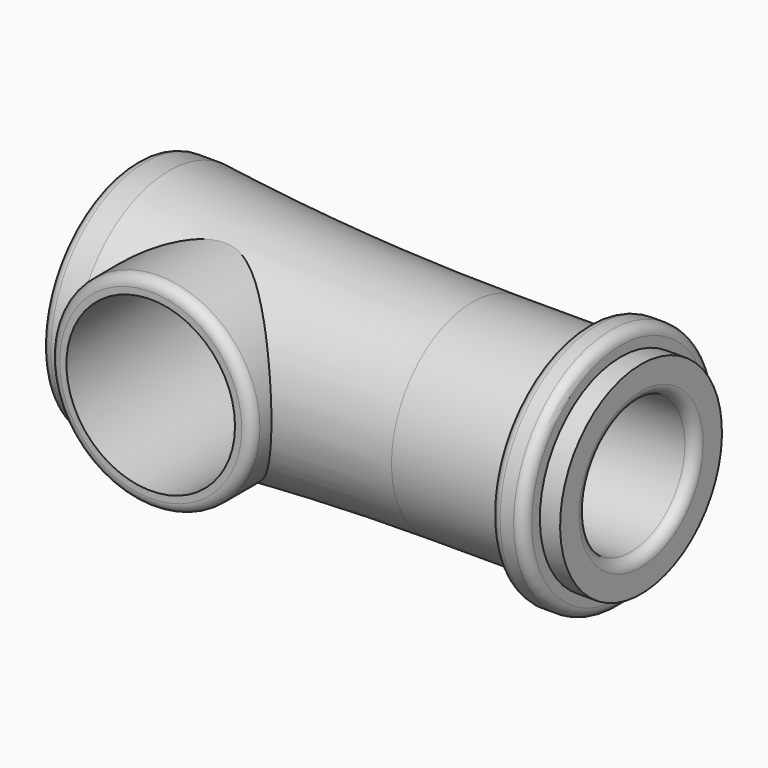
from build123d import *

# Parameters (mm, degrees)
F2_R     = 15
F3_DEPTH = 19
F4_R     = 12.5
F5_DEPTH = 25
F6_R     = 1.5


with BuildPart() as f1:
    # F0 (on Front) → F1 (revolve)
    with BuildSketch(Plane.XZ):
        with BuildLine():
            Line((0, 17.5), (0, 0))
            Line((0, 0), (60, 0))
            Line((60, 0), (60, 10))
            Line((60, 10), (75, 10))
            Line((75, 10), (75, 15))
            Line((75, 15), (72, 15))
            Line((72, 15), (72, 18))
            Line((72, 18), (67, 18))
            Line((67, 18), (67, 15))
            Line((67, 15), (50, 15))
            ThreePointArc((50, 15), (27.465305, 15.625482), (5, 17.5))
            Line((5, 17.5), (0, 17.5))
        make_face()
    revolve(axis=Axis((30, 0, 0), (1, 0, 0)))

    # F2 (on Front) → F3 (join)
    with BuildSketch(Plane.XZ):
        with Locations((17.5, 0)):
            Circle(F2_R)
    extrude(amount=F3_DEPTH)

    # F4 (on face) → F5 (cut)
    with BuildSketch(Plane.XZ.offset(19)):
        with Locations((17.5, 0)):
            Circle(F4_R)
    extrude(amount=-F5_DEPTH, mode=Mode.SUBTRACT)

    # F6
    f6_edges = [f1.edges().sort_by_distance(p)[0] for p in [
        (0, 0, -17.5),
        (2.5, -19, 0),
        (67, 0, -18),
        (72, 0, -18),
        (75, 0, -10),
    ]]
    fillet(f6_edges, radius=F6_R)


solid = f1.part
